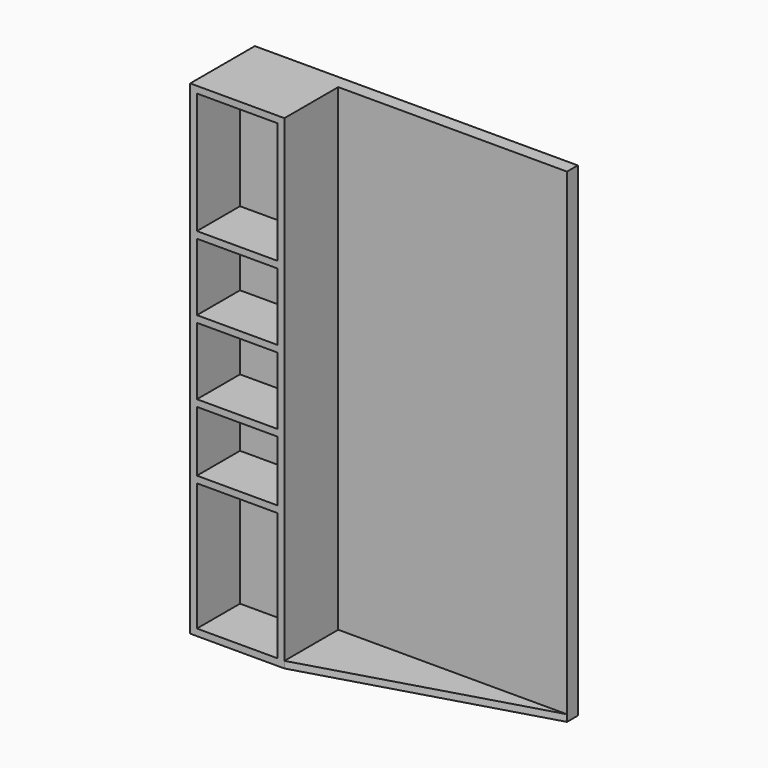
from build123d import *

# Parameters (mm, degrees)
F0_W     = 609.6
F0_H     = 914.4
F1_DEPTH = 25.4
F2_W     = 177.8
F2_H     = 914.4
F3_DEPTH = 127
F4_W     = 152.4
F4_H     = 889
F5_DEPTH = 101.6
F6_W     = 152.4
F6_H     = 12.7
F7_DEPTH = 101.6
F9_DEPTH = 12.7


with BuildPart() as f1:
    # F0 (on Front) → F1 (new body)
    with BuildSketch(Plane.XZ):
        with Locations((304.8, 457.2)):
            Rectangle(F0_W, F0_H)
    extrude(amount=F1_DEPTH)

    # F2 (on face) → F3 (join)
    with BuildSketch(Plane.XZ.offset(25.4)):
        with Locations((88.9, 457.2)):
            Rectangle(F2_W, F2_H)
    extrude(amount=F3_DEPTH)

    # F4 (on face) → F5 (cut)
    with BuildSketch(Plane.XZ.offset(152.4)):
        with Locations((88.9, 457.2)):
            Rectangle(F4_W, F4_H)
    extrude(amount=-F5_DEPTH, mode=Mode.SUBTRACT)

    # F6 (on face) → F7 (join)
    with BuildSketch(Plane.XZ.offset(50.8)):
        with Locations((88.9, 666.75)):
            Rectangle(F6_W, F6_H)
        with Locations((88.9, 527.05)):
            Rectangle(F6_W, F6_H)
        with Locations((88.9, 387.35)):
            Rectangle(F6_W, F6_H)
        with Locations((88.9, 260.35)):
            Rectangle(F6_W, F6_H)
    extrude(amount=F7_DEPTH)

    # F8 (on Top) → F9 (join)
    with BuildSketch(Plane.XY):
        Polygon((177.8, -25.4), (177.8, -152.4), (609.6, -25.4), align=None)
    extrude(amount=F9_DEPTH)


solid = f1.part
